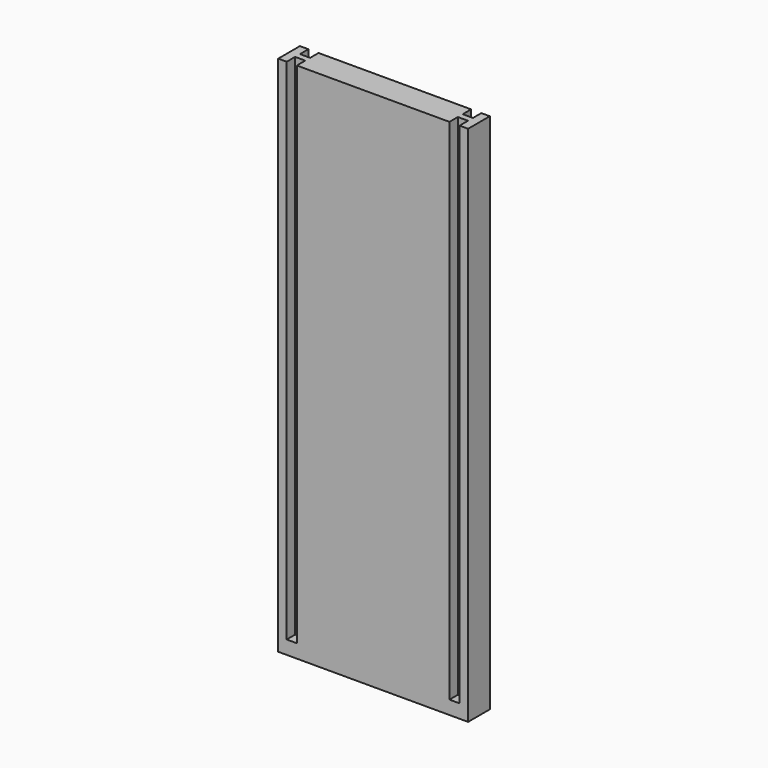
from build123d import *

# Parameters (mm, degrees)
SKETCH_W     = 28
SKETCH_H     = 8
PAD_DEPTH    = 4
PAD001_DEPTH = 150
SKETCH002_R  = 1.25
POCKET_DEPTH = 1.8


with BuildPart() as part:
    # Sketch → Pad (new body)
    with BuildSketch(Plane.XY):
        with Locations((-14, 0)):
            Rectangle(SKETCH_W, SKETCH_H)
    pad = extrude(amount=PAD_DEPTH)

    # Sketch001 (on Face6 of Pad) → Pad001 (join)
    with BuildSketch(Plane.XY.offset(4)):
        Polygon((-22.5, 0.9), (-25.5, 0.9), (-25.5, 4), (-28, 4), (-28, -4), (-25.5, -4), (-25.5, -0.9), (-22.5, -0.9), (-22.5, -4), (0, -4), (0, 4), (-22.5, 4), align=None)
    pad001 = extrude(amount=PAD001_DEPTH)

    # Sketch002 (on Face14 of Pad001) → Pocket (cut)
    with BuildSketch(Plane(origin=(0, 0.9, 0), x_dir=(-1, 0, 0), z_dir=(0, 1, 0))):
        with Locations((24, 151)):
            Circle(SKETCH002_R)
    pocket = extrude(amount=-POCKET_DEPTH, mode=Mode.SUBTRACT)

    # Mirrored: Pad, Pad001, Pocket across Sketch V_Axis
    add(pad.mirror(Plane(origin=(0, 0, 0), x_dir=(0, 0, 1), z_dir=(1, 0, 0))))
    add(pad001.mirror(Plane(origin=(0, 0, 0), x_dir=(0, 0, 1), z_dir=(1, 0, 0))))
    add(pocket.mirror(Plane(origin=(0, 0, 0), x_dir=(0, 0, 1), z_dir=(1, 0, 0))), mode=Mode.SUBTRACT)


solid = part.part
